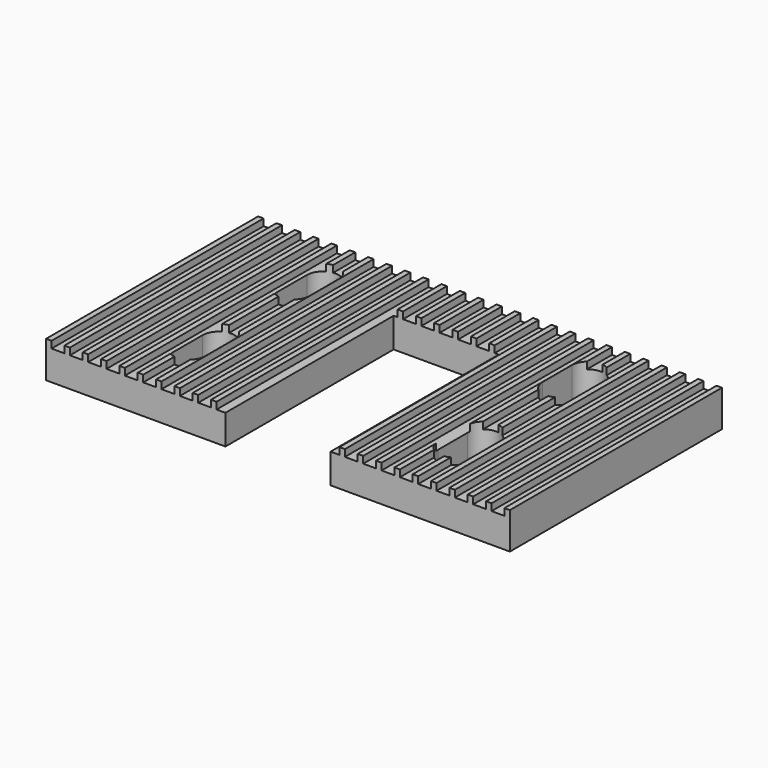
from build123d import *

# Parameters (mm, degrees)
F1_DEPTH = 29
F2_W     = 5.75
F2_H     = 23
F3_DEPTH = 4
F2_W_2   = 3.5
F2_H_2   = 4
F4_DEPTH = 4.001


with BuildPart() as f1:
    # F0 (on Front) → F1 (new body)
    with BuildSketch(Plane.XZ):
        Polygon((0, 4), (0, 0), (50.75, 0), (50.75, 3.25), (50.75, 4), (50.15, 4), (50.15, 3.25), (48.744, 3.25), (48.744, 4), (48.144, 4), (48.144, 3.25), (46.738, 3.25), (46.738, 4), (46.138, 4), (46.138, 3.25), (44.732, 3.25), (44.732, 4), (44.132, 4), (44.132, 3.25), (42.726, 3.25), (42.726, 4), (42.126, 4), (42.126, 3.25), (40.72, 3.25), (40.72, 4), (40.12, 4), (40.12, 3.25), (38.714, 3.25), (38.714, 4), (38.114, 4), (38.114, 3.25), (36.708, 3.25), (36.708, 4), (36.108, 4), (36.108, 3.25), (34.702, 3.25), (34.702, 4), (34.102, 4), (34.102, 3.25), (32.696, 3.25), (32.696, 4), (32.096, 4), (32.096, 3.25), (30.69, 3.25), (30.69, 4), (30.09, 4), (30.09, 3.25), (28.684, 3.25), (28.684, 4), (28.084, 4), (28.084, 3.25), (26.678, 3.25), (26.678, 4), (26.078, 4), (26.078, 3.25), (24.672, 3.25), (24.672, 4), (24.072, 4), (24.072, 3.25), (22.666, 3.25), (22.666, 4), (22.066, 4), (22.066, 3.25), (20.66, 3.25), (20.66, 4), (20.06, 4), (20.06, 3.25), (18.654, 3.25), (18.654, 4), (18.054, 4), (18.054, 3.25), (16.648, 3.25), (16.648, 4), (16.048, 4), (16.048, 3.25), (14.642, 3.25), (14.642, 4), (14.042, 4), (14.042, 3.25), (12.636, 3.25), (12.636, 4), (12.036, 4), (12.036, 3.25), (10.63, 3.25), (10.63, 4), (10.03, 4), (10.03, 3.25), (8.624, 3.25), (8.624, 4), (8.324, 4), (8.024, 4), (8.024, 3.25), (6.618, 3.25), (6.618, 4), (6.318, 4), (6.018, 4), (6.018, 3.25), (4.612, 3.25), (4.612, 4), (4.012, 4), (4.012, 3.25), (2.606, 3.25), (2.606, 4), (2.006, 4), (2.006, 3.25), (0.6, 3.25), (0.6, 4), align=None)
    extrude(amount=F1_DEPTH)

    # F2 (on face) → F3 (cut, through all)
    with BuildSketch(Plane(origin=(0, 0, 0), x_dir=(1, 0, 0), z_dir=(0, 0, -1))):
        with Locations((22.5, 17.5)):
            Rectangle(F2_W, F2_H)
        with Locations((28.25, 17.5)):
            Rectangle(F2_W, F2_H)
    extrude(amount=-F3_DEPTH, mode=Mode.SUBTRACT)

    # F2 (on face) → F4 (cut, through all)
    with BuildSketch(Plane(origin=(0, 0, 0), x_dir=(1, 0, 0), z_dir=(0, 0, -1))):
        with BuildLine():
            ThreePointArc((12.625, 23), (10.875, 24.75), (9.125, 23))
            Line((9.125, 23), (12.625, 23))
        make_face()
        with Locations((10.875, 21)):
            Rectangle(F2_W_2, F2_H_2)
        with BuildLine():
            Line((12.625, 19), (9.125, 19))
            ThreePointArc((9.125, 19), (10.875, 17.25), (12.625, 19))
        make_face()
        with BuildLine():
            ThreePointArc((12.625, 8.75), (10.875, 10.5), (9.125, 8.75))
            Line((9.125, 8.75), (12.625, 8.75))
        make_face()
        with Locations((10.875, 6.75)):
            Rectangle(F2_W_2, F2_H_2)
        with BuildLine():
            Line((12.625, 4.75), (9.125, 4.75))
            ThreePointArc((9.125, 4.75), (10.875, 3), (12.625, 4.75))
        make_face()
        with BuildLine():
            ThreePointArc((41.5842387676, 23), (39.8342387676, 24.75), (38.0842387676, 23))
            Line((38.0842387676, 23), (41.5842387676, 23))
        make_face()
        with Locations((39.8342387676, 21)):
            Rectangle(F2_W_2, F2_H_2)
        with BuildLine():
            Line((41.5842387676, 19), (38.0842387676, 19))
            ThreePointArc((38.0842387676, 19), (39.8342387676, 17.25), (41.5842387676, 19))
        make_face()
        with BuildLine():
            ThreePointArc((41.625, 8.75), (39.875, 10.5), (38.125, 8.75))
            Line((38.125, 8.75), (41.625, 8.75))
        make_face()
        with Locations((39.875, 6.75)):
            Rectangle(F2_W_2, F2_H_2)
        with BuildLine():
            Line((41.625, 4.75), (38.125, 4.75))
            ThreePointArc((38.125, 4.75), (39.875, 3), (41.625, 4.75))
        make_face()
    extrude(amount=-F4_DEPTH, mode=Mode.SUBTRACT)


solid = f1.part
